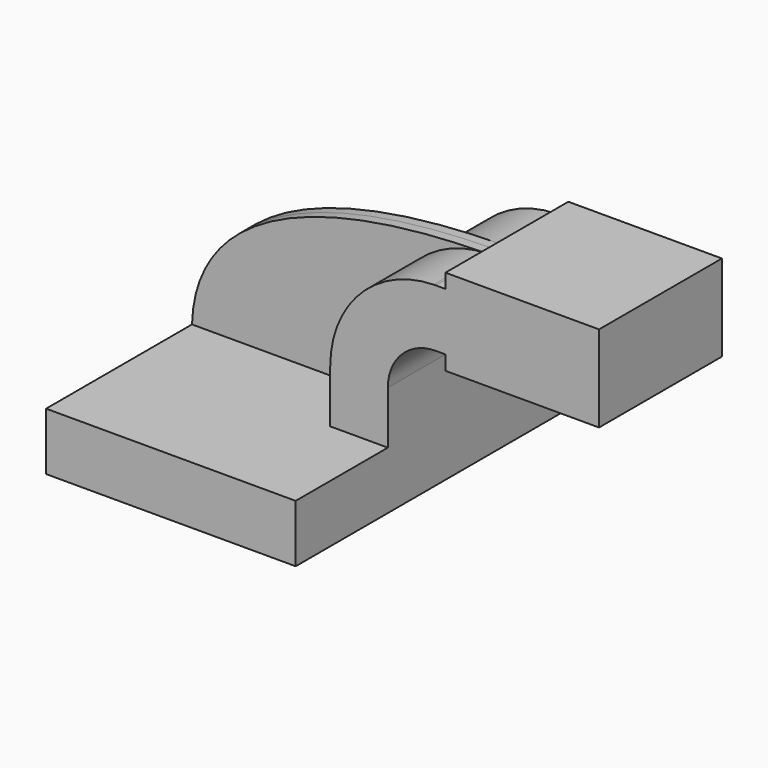
from build123d import *

# Parameters (mm, degrees)
F1_DEPTH = 63.5
F0_W     = 25.4
F0_H     = 19.05
F0_H_2   = 4.7498
F0_H_3   = 4.7752
F2_DEPTH = 25.4
F3_DEPTH = 3.175


with BuildPart() as f1:
    # F0 (on Front) → F1 (new body, symmetric)
    with BuildSketch(Plane.XZ):
        Polygon((41.275, -9.525), (41.275, 9.525), (22.225, 9.525), (-41.275, 9.525), (-41.275, -9.525), align=None)
    extrude(amount=F1_DEPTH, both=True)

    # F0 (on Front) → F2 (join, symmetric)
    with BuildSketch(Plane.XZ):
        with BuildLine():
            Line((22.225, 9.525), (41.275, 9.525))
            Line((41.275, 9.525), (41.275, 27.0002))
            ThreePointArc((41.275, 27.0002), (45.9246798487, 38.2255201513), (57.15, 42.8752))
            Line((57.15, 42.8752), (60.325, 42.8752))
            Line((60.325, 42.8752), (60.325, 61.9252))
            Line((60.325, 61.9252), (57.15, 61.9252))
            add(Edge.make_bspline(
                [(56.4749540352, 61.918675596), (56.6996080487, 61.9210846783), (56.9246234605, 61.9232595365), (57.15, 61.9252)],
                knots=[111.1038560416, 111.1038560416, 111.1038560416, 111.1038560416, 111.5045361635, 111.5045361635, 111.5045361635, 111.5045361635], degree=3))
            ThreePointArc((56.4749540352, 61.918675596), (32.2167731198, 51.4560750066), (22.225, 27.0002))
            Line((22.225, 27.0002), (22.225, 9.525))
        make_face()
        with Locations((73.025, 52.4002)):
            Rectangle(F0_W, F0_H)
        Polygon((85.725, 61.9252), (85.725, 42.8752), (85.725, 38.1), (111.125, 38.1), (111.125, 66.675), (85.725, 66.675), align=None)
        with Locations((73.025, 64.3001)):
            Rectangle(F0_W, F0_H_2)
        with Locations((73.025, 40.4876)):
            Rectangle(F0_W, F0_H_3)
    extrude(amount=F2_DEPTH, both=True)

    # F0 (on Front) → F3 (join, symmetric)
    with BuildSketch(Plane.XZ):
        with BuildLine():
            Line((-41.275, 9.525), (22.225, 9.525))
            Line((22.225, 9.525), (22.225, 27.0002))
            ThreePointArc((22.225, 27.0002), (32.2167731198, 51.4560750066), (56.4749540352, 61.918675596))
            add(Edge.make_bspline(
                [(-41.275, 9.525), (-40.3253856931, 42.5734618465), (-5.8189452735, 61.2506655739), (56.4749540352, 61.918675596)],
                knots=[0, 0, 0, 0, 111.1038560416, 111.1038560416, 111.1038560416, 111.1038560416], degree=3))
        make_face()
    extrude(amount=F3_DEPTH, both=True)


solid = f1.part
